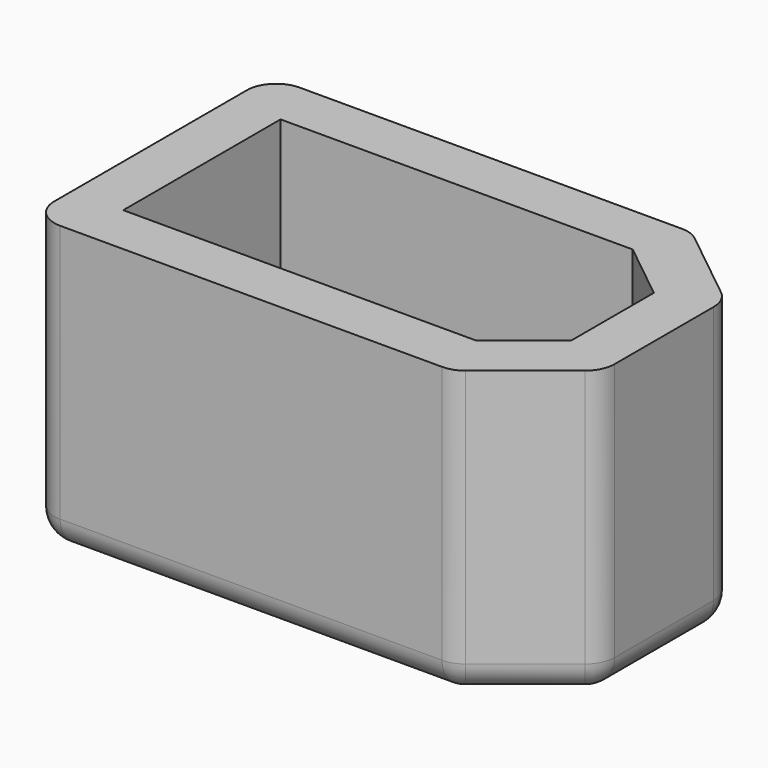
from build123d import *

# Parameters (mm, degrees)
F0_W     = 6.2
F0_H     = 3.35
F1_DEPTH = 1.8
F2_DEPTH = 9.8
F3_R     = 1


with BuildPart() as f1:
    # F0 (on Top) → F1 (new body)
    with BuildSketch(Plane.XY):
        with Locations((-4.898699, 1.675)):
            Rectangle(F0_W, F0_H)
        Polygon((-0.498699, 3.35), (-0.498699, 0), (6.001301, 0), (6.001301, 1.75), (4.001301, 3.35), align=None)
    extrude(amount=F1_DEPTH)

    # F0 (on Top) → F2 (join)
    with BuildSketch(Plane.XY):
        Polygon((-9.748699, 0), (-7.998699, 0), (-7.998699, 3.35), (-1.798699, 3.35), (-0.498699, 3.35), (4.001301, 3.35), (6.001301, 1.75), (6.001301, 0), (7.751301, 0), (7.751301, 2.591093), (4.615168, 5.1), (-9.748699, 5.1), align=None)
    extrude(amount=F2_DEPTH)

    # F3
    f3_edges = [f1.edges().sort_by_distance(p)[0] for p in [
        (-9.748699, 5.1, 4.9),
        (4.615168, 5.1, 4.9),
        (7.751301, 2.591093, 4.9),
        (-2.566765, 5.1, 0),
        (6.183235, 3.845547, 0),
        (7.751301, 1.295547, 0),
        (-9.748699, 2.55, 0),
    ]]
    fillet(f3_edges, radius=F3_R)

    # F4: F1 across face


with BuildPart() as f1_1:
    add(f1.part)
    add(f1.part.mirror(Plane(origin=(5.186004, 0, 3.300707), x_dir=(1, 0, 0), z_dir=(0, -1, 0))))


solid = f1_1.part
